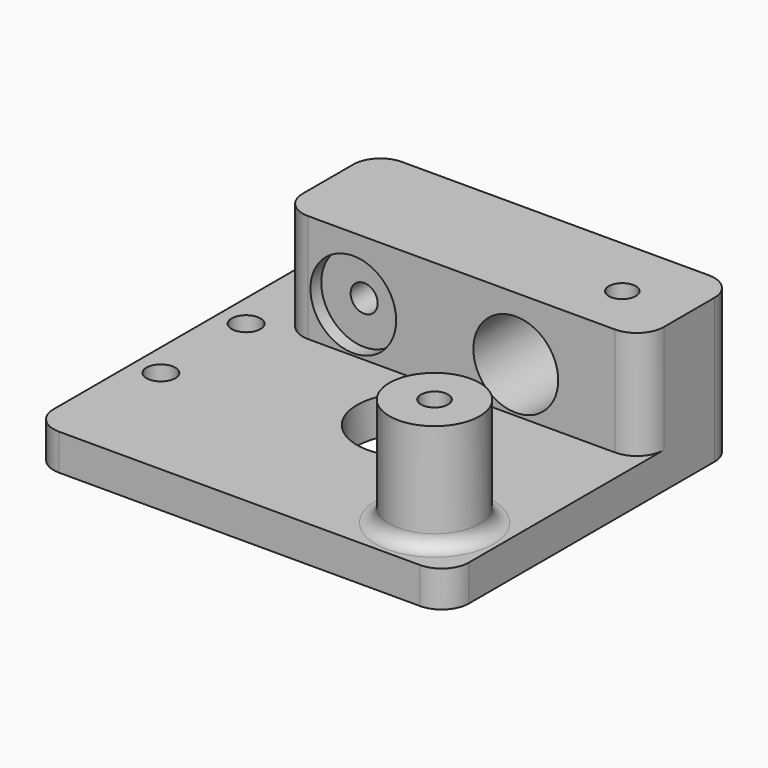
from build123d import *

# Parameters (mm, degrees)
SKETCH_R             = 1.6
SKETCH_R_2           = 6
PAD_DEPTH            = 4
SKETCH001_R          = 5
PAD001_DEPTH         = 12
SKETCH002_R          = 4.7
POCKET_DEPTH         = 13.001
SKETCH003_R          = 4.75
POCKET001_DEPTH      = 1.5
SKETCH004_R          = 1.5
POCKET002_DEPTH      = 13.001
SKETCH005_R          = 1.5
POCKET003_DEPTH      = 4.001
POCKET003_DEPTH_BACK = -12.001
FILLET_R             = 3
FILLET001_R          = 1.5


with BuildPart() as part:
    # Sketch → Pad (new body)
    with BuildSketch(Plane.XY):
        Polygon((0, 20), (-26, 20), (-26, 0), (-26, -20), (0, -20), (20, -20), (20, 0), (20, 20), align=None)
        with Locations((-23, 5.9)):
            Circle(SKETCH_R, mode=Mode.SUBTRACT)
        with Locations((-23, -5.9)):
            Circle(SKETCH_R, mode=Mode.SUBTRACT)
        Circle(SKETCH_R_2, mode=Mode.SUBTRACT)
    extrude(amount=-PAD_DEPTH)

    # Sketch001 → Pad001 (join)
    with BuildSketch(Plane.XY):
        with Locations((13, -13)):
            Circle(SKETCH001_R)
        Polygon((0, 20), (20, 20), (20, 7), (0, 7), (-20, 7), (-20, 20), align=None)
    extrude(amount=PAD001_DEPTH)

    # Sketch002 (on DatumPlane) → Pocket (cut, through all)
    with BuildSketch(Plane.XZ.offset(-7)):
        with Locations((6, 5)):
            Circle(SKETCH002_R)
    extrude(amount=-POCKET_DEPTH, mode=Mode.SUBTRACT)

    # Sketch003 (on DatumPlane) → Pocket001 (cut)
    with BuildSketch(Plane.XZ.offset(-7)):
        with Locations((-12, 5)):
            Circle(SKETCH003_R)
    extrude(amount=-POCKET001_DEPTH, mode=Mode.SUBTRACT)

    # Sketch004 (on DatumPlane) → Pocket002 (cut, through all)
    with BuildSketch(Plane.XZ.offset(-7)):
        with Locations((-12, 5)):
            Circle(SKETCH004_R)
    extrude(amount=-POCKET002_DEPTH, mode=Mode.SUBTRACT)

    # Sketch005 → Pocket003 (cut, two sides)
    with BuildSketch(Plane.XY) as pocket003_sk:
        with Locations((13, -13)):
            Circle(SKETCH005_R)
        with Locations((13, 13)):
            Circle(SKETCH005_R)
    extrude(amount=-POCKET003_DEPTH, mode=Mode.SUBTRACT)
    extrude(pocket003_sk.sketch, amount=-POCKET003_DEPTH_BACK, mode=Mode.SUBTRACT)

    # Fillet
    fillet_edges = [part.edges().sort_by_distance(p)[0] for p in [
        (-26, -20, -2),
        (20, -20, -2),
        (20, 20, -2),
        (-26, 20, -2),
        (20, 7, 6),
        (-20, 7, 6),
        (-20, 20, 6),
    ]]
    fillet(fillet_edges, radius=FILLET_R)

    # Fillet001
    fillet001_edges = [part.edges().sort_by_distance(p)[0] for p in [
        (8, -13, 0),
    ]]
    fillet(fillet001_edges, radius=FILLET001_R)


solid = part.part
